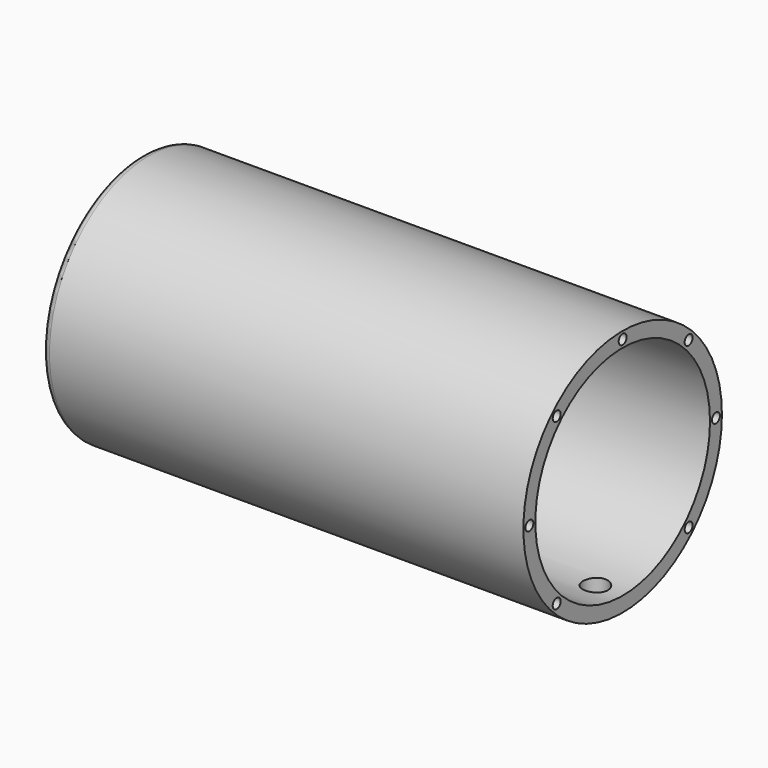
from build123d import *

# Parameters (mm, degrees)
F0_R     = 50
F1_DEPTH = 97
F2_T     = -6
F3_R     = 2
F4_DEPTH = 40
F5_R     = 3
F6_R     = 5
F7_DEPTH = 50.001


with BuildPart() as f1:
    # F0 (on Right) → F1 (new body, symmetric)
    with BuildSketch(Plane.YZ):
        Circle(F0_R)
    extrude(amount=F1_DEPTH, both=True)

    # F2
    f2_openings = [f1.faces().sort_by_distance(p)[0] for p in [
        (97, 0, 0),
    ]]
    offset(amount=F2_T, openings=f2_openings)

    # F3 (on face) → F4 (cut)
    with BuildSketch(Plane.YZ.offset(97)):
        with Locations((-47, 0)):
            Circle(F3_R)
        with Locations((-33.234019, 33.234019)):
            Circle(F3_R)
        with Locations((0, 47)):
            Circle(F3_R)
        with Locations((33.234019, 33.234019)):
            Circle(F3_R)
        with Locations((47, 0)):
            Circle(F3_R)
        with Locations((-33.234019, -33.234019)):
            Circle(F3_R)
        with Locations((33.234019, -33.234019)):
            Circle(F3_R)
    extrude(amount=-F4_DEPTH, mode=Mode.SUBTRACT)

    # F5
    f5_edges = [f1.edges().sort_by_distance(p)[0] for p in [
        (-97, -50, 0),
    ]]
    fillet(f5_edges, radius=F5_R)

    # F6 (on Top) → F7 (cut, through all)
    with BuildSketch(Plane.XY):
        with Locations((-80, 0)):
            Circle(F6_R)
        with Locations((86, 0)):
            Circle(F6_R)
    extrude(amount=-F7_DEPTH, mode=Mode.SUBTRACT)


solid = f1.part
